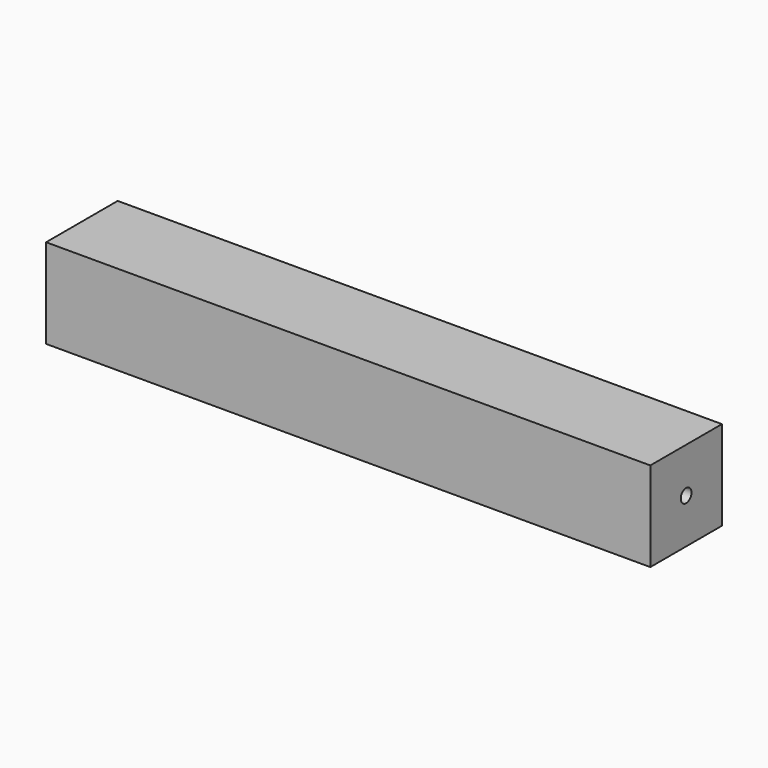
from build123d import *

# Parameters (mm, degrees)
F0_W     = 40
F0_H     = 40
F1_DEPTH = 270
F2_R     = 3
F3_DEPTH = 12
F4_R     = 3
F5_DEPTH = 12


with BuildPart() as f1:
    # F0 (on Right) → F1 (new body)
    with BuildSketch(Plane.YZ):
        with Locations((20, 20)):
            Rectangle(F0_W, F0_H)
    extrude(amount=F1_DEPTH)

    # F2 (on face) → F3 (cut)
    with BuildSketch(Plane.YZ.offset(270)):
        with Locations((20, 20)):
            Circle(F2_R)
    extrude(amount=-F3_DEPTH, mode=Mode.SUBTRACT)

    # F4 (on face) → F5 (cut)
    with BuildSketch(Plane(origin=(0, 0, 0), x_dir=(0, -1, 0), z_dir=(-1, 0, 0))):
        with Locations((-20, 20)):
            Circle(F4_R)
    extrude(amount=-F5_DEPTH, mode=Mode.SUBTRACT)


solid = f1.part
